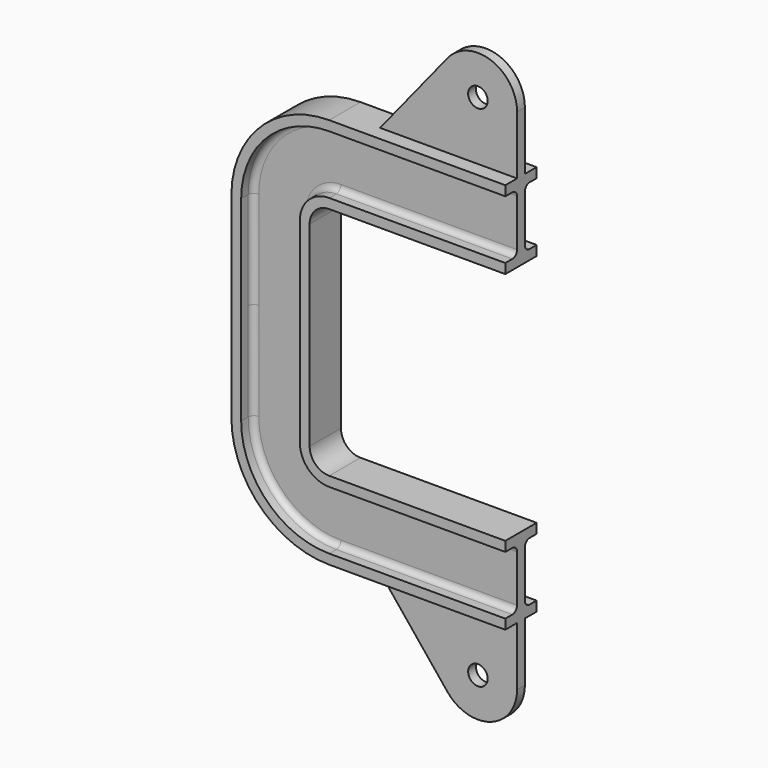
from build123d import *

# Parameters (mm, degrees)
F4_R     = 5
F5_DEPTH = 2.5


with BuildPart() as f2:
    # F2: sweep along a path in F0
    with BuildLine(Plane.XZ) as f2_path:
        Line((0, 60), (-90, 60))
        ThreePointArc((-90, 60), (-97.071068, 57.071068), (-100, 50))
        Line((-100, 50), (-100, 0))
    # F1 (on Right) → F2 (sweep)
    with BuildSketch(Plane.YZ):
        with BuildLine():
            Line((-10, 100), (-10, 95))
            Line((-10, 95), (-5.5, 95))
            ThreePointArc((-5.5, 95), (-3.37868, 94.12132), (-2.5, 92))
            Line((-2.5, 92), (-2.5, 68))
            ThreePointArc((-2.5, 68), (-3.37868, 65.87868), (-5.5, 65))
            Line((-5.5, 65), (-10, 65))
            Line((-10, 65), (-10, 60))
            Line((-10, 60), (0, 60))
            Line((0, 60), (10, 60))
            Line((10, 60), (10, 65))
            Line((10, 65), (5.5, 65))
            ThreePointArc((5.5, 65), (3.37868, 65.87868), (2.5, 68))
            Line((2.5, 68), (2.5, 92))
            ThreePointArc((2.5, 92), (3.37868, 94.12132), (5.5, 95))
            Line((5.5, 95), (10, 95))
            Line((10, 95), (10, 100))
            Line((10, 100), (-10, 100))
        make_face()
    sweep(path=f2_path.line)

    # F3: F2 across plane


with BuildPart() as f2_1:
    add(f2.part)
    add(f2.part.mirror(Plane.XY))

    # F4 (on Front) → F5 (join, symmetric)
    with BuildSketch(Plane.XZ):
        with BuildLine():
            Line((-35.548045, 142.580075), (-70, 100))
            Line((-70, 100), (0, 100))
            Line((0, 100), (0, 130))
            ThreePointArc((0, 130), (-13.327703, 148.854189), (-35.548045, 142.580075))
        make_face()
        with Locations((-20, 130)):
            Circle(F4_R, mode=Mode.SUBTRACT)
        with BuildLine():
            Line((0, -100), (-70, -100))
            Line((-70, -100), (-35.548045, -142.580075))
            ThreePointArc((-35.548045, -142.580075), (-13.327703, -148.854189), (0, -130))
            Line((0, -130), (0, -100))
        make_face()
        with Locations((-20, -130)):
            Circle(F4_R, mode=Mode.SUBTRACT)
    extrude(amount=F5_DEPTH, both=True)


solid = f2_1.part
